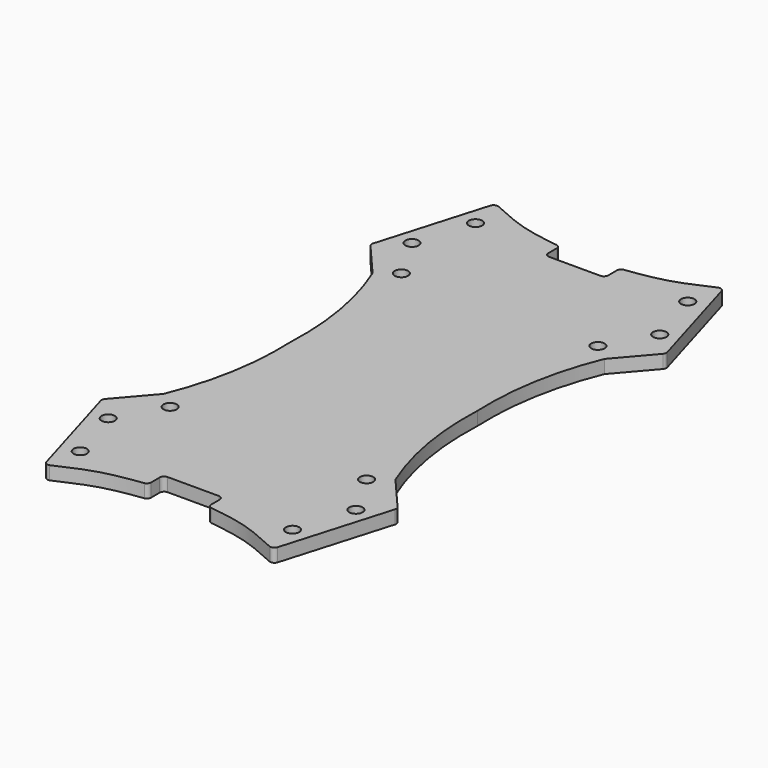
from build123d import *

# Parameters (mm, degrees)
F0_R     = 1.5
F1_DEPTH = 3


with BuildPart() as f1:
    # F0 (on Top) → F1 (new body)
    with BuildSketch(Plane.XY):
        with BuildLine():
            Line((5.7273890649, 53.4758238342), (0, 53.4758238342))
            Line((0, 53.4758238342), (-5.7273890649, 53.4758238342))
            ThreePointArc((-5.7273890649, 53.4758238342), (-6.4344958461, 53.768717053), (-6.7273890649, 54.4758238342))
            Line((-6.7273890649, 54.4758238342), (-6.7273890649, 56.8470753243))
            ThreePointArc((-6.7273890649, 56.8470753243), (-6.9267123093, 57.4461719217), (-7.4452225311, 57.8064407641))
            add(Edge.make_bspline(
                [(-24.6885200078, 62.878002944), (-21.8800887349, 61.5944759075), (-16.3078689335, 59.047824744), (-10.3836169627, 58.2180193839), (-7.4452225311, 57.8064407641)],
                knots=[0, 0, 0, 0, 0.5040058313, 1, 1, 1, 1], degree=3))
            ThreePointArc((-24.6885200078, 62.878002944), (-25.4495384803, 62.7965331818), (-25.9300519815, 62.200804038))
            Line((-25.9300519815, 62.200804038), (-33.0061568565, 38.1420669059))
            ThreePointArc((-33.0061568565, 38.1420669059), (-33.0243803744, 37.6493776189), (-32.8049766224, 37.2078611143))
            Line((-32.8049766224, 37.2078611143), (-26.0061749385, 29.3022775285))
            ThreePointArc((-26.0061749385, 29.3022775285), (-21.8685763997, 14.9282067956), (-20.9292825311, 0))
            ThreePointArc((-20.9292825311, 0), (-21.8685763997, -14.9282067956), (-26.0061749385, -29.3022775285))
            Line((-26.0061749385, -29.3022775285), (-32.8049766224, -37.2078611143))
            ThreePointArc((-32.8049766224, -37.2078611143), (-33.0243803744, -37.6493776189), (-33.0061568565, -38.1420669059))
            Line((-33.0061568565, -38.1420669059), (-25.9300519815, -62.200804038))
            ThreePointArc((-25.9300519815, -62.200804038), (-25.4495384803, -62.7965331818), (-24.6885200078, -62.878002944))
            add(Edge.make_bspline(
                [(-24.6885200078, -62.878002944), (-21.8800887349, -61.5944759075), (-16.3078689335, -59.047824744), (-10.3836169627, -58.2180193839), (-7.4452225311, -57.8064407641)],
                knots=[0, 0, 0, 0, 0.5040058313, 1, 1, 1, 1], degree=3))
            ThreePointArc((-7.4452225311, -57.8064407641), (-6.9267123093, -57.4461719217), (-6.7273890649, -56.8470753243))
            Line((-6.7273890649, -56.8470753243), (-6.7273890649, -54.4758238342))
            ThreePointArc((-6.7273890649, -54.4758238342), (-6.4344958461, -53.768717053), (-5.7273890649, -53.4758238342))
            Line((-5.7273890649, -53.4758238342), (0, -53.4758238342))
            Line((0, -53.4758238342), (5.7273890649, -53.4758238342))
            ThreePointArc((5.7273890649, -53.4758238342), (6.4344958461, -53.768717053), (6.7273890649, -54.4758238342))
            Line((6.7273890649, -54.4758238342), (6.7273890649, -56.8470753243))
            ThreePointArc((6.7273890649, -56.8470753243), (6.9267123093, -57.4461719217), (7.4452225311, -57.8064407641))
            add(Edge.make_bspline(
                [(24.6885200078, -62.878002944), (21.8800887349, -61.5944759075), (16.3078689335, -59.047824744), (10.3836169627, -58.2180193839), (7.4452225311, -57.8064407641)],
                knots=[0, 0, 0, 0, 0.5040058313, 1, 1, 1, 1], degree=3))
            ThreePointArc((24.6885200078, -62.878002944), (25.4495384803, -62.7965331818), (25.9300519815, -62.200804038))
            Line((25.9300519815, -62.200804038), (33.0061568565, -38.1420669059))
            ThreePointArc((33.0061568565, -38.1420669059), (33.0243803744, -37.6493776189), (32.8049766224, -37.2078611143))
            Line((32.8049766224, -37.2078611143), (26.0061749385, -29.3022775285))
            ThreePointArc((26.0061749385, -29.3022775285), (21.8685763997, -14.9282067956), (20.9292825311, 0))
            ThreePointArc((20.9292825311, 0), (21.8685763997, 14.9282067956), (26.0061749385, 29.3022775285))
            Line((26.0061749385, 29.3022775285), (32.8049766224, 37.2078611143))
            ThreePointArc((32.8049766224, 37.2078611143), (33.0243803744, 37.6493776189), (33.0061568565, 38.1420669059))
            Line((33.0061568565, 38.1420669059), (25.9300519815, 62.200804038))
            ThreePointArc((25.9300519815, 62.200804038), (25.4495384803, 62.7965331818), (24.6885200078, 62.878002944))
            add(Edge.make_bspline(
                [(24.6885200078, 62.878002944), (21.8800887349, 61.5944759075), (16.3078689335, 59.047824744), (10.3836169627, 58.2180193839), (7.4452225311, 57.8064407641)],
                knots=[0, 0, 0, 0, 0.5040058313, 1, 1, 1, 1], degree=3))
            ThreePointArc((7.4452225311, 57.8064407641), (6.9267123093, 57.4461719217), (6.7273890649, 56.8470753243))
            Line((6.7273890649, 56.8470753243), (6.7273890649, 54.4758238342))
            ThreePointArc((6.7273890649, 54.4758238342), (6.4344958461, 53.768717053), (5.7273890649, 53.4758238342))
        make_face()
        with Locations((-23.8022357225, -55.4024465382)):
            Circle(F0_R, mode=Mode.SUBTRACT)
        with Locations((-27.7801714838, -42.5846539438)):
            Circle(F0_R, mode=Mode.SUBTRACT)
        with Locations((-22.0342632383, -32.4188172817)):
            Circle(F0_R, mode=Mode.SUBTRACT)
        with Locations((23.8022357225, -55.4024465382)):
            Circle(F0_R, mode=Mode.SUBTRACT)
        with Locations((22.0342632383, -32.4188172817)):
            Circle(F0_R, mode=Mode.SUBTRACT)
        with Locations((27.7801714838, -42.5846539438)):
            Circle(F0_R, mode=Mode.SUBTRACT)
        with Locations((-27.7801714838, 42.5846539438)):
            Circle(F0_R, mode=Mode.SUBTRACT)
        with Locations((-22.0342632383, 32.4188172817)):
            Circle(F0_R, mode=Mode.SUBTRACT)
        with Locations((-23.8022357225, 55.4024465382)):
            Circle(F0_R, mode=Mode.SUBTRACT)
        with Locations((22.0342632383, 32.4188172817)):
            Circle(F0_R, mode=Mode.SUBTRACT)
        with Locations((27.7801714838, 42.5846539438)):
            Circle(F0_R, mode=Mode.SUBTRACT)
        with Locations((23.8022357225, 55.4024465382)):
            Circle(F0_R, mode=Mode.SUBTRACT)
    extrude(amount=F1_DEPTH)


solid = f1.part
